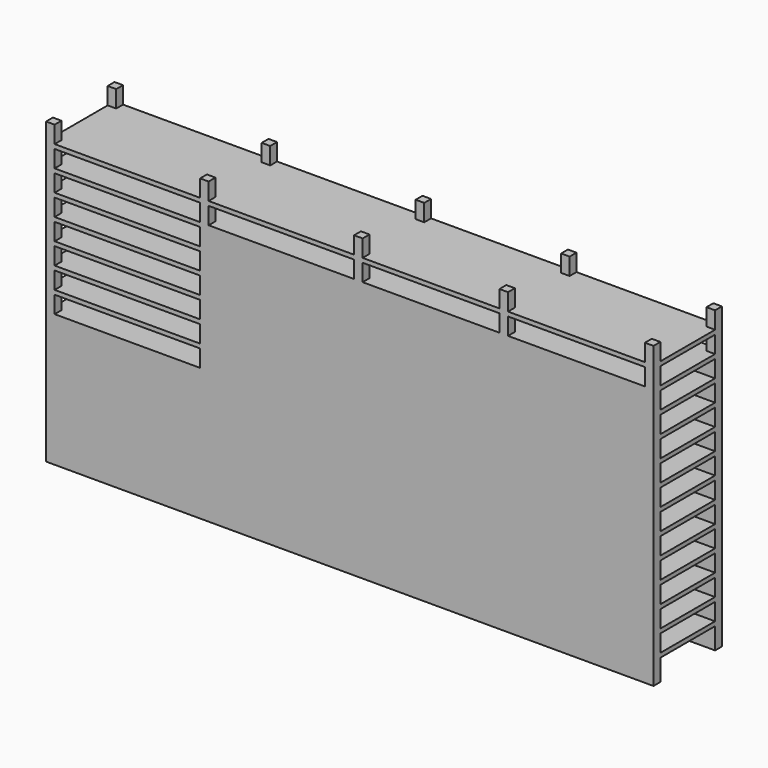
from build123d import *

# Parameters (mm, degrees)
F0_W     = 360.68
F0_H     = 50.8
F1_DEPTH = 177.8
F2_W     = 40.64
F2_H     = 10.16
F2_H_2   = 7.62
F2_H_3   = 2.54
F3_DEPTH = 360.681
F4_W     = 86.36
F4_H     = 10.16
F4_W_2   = 81.28
F5_DEPTH = 50.801
F7_DEPTH = 360.681


with BuildPart() as f1:
    # F0 (on Top) → F1 (new body)
    with BuildSketch(Plane.XY):
        with Locations((-123.650887, 16.643145)):
            Rectangle(F0_W, F0_H)
    extrude(amount=F1_DEPTH)

    # F2 (on face) → F3 (cut, through all)
    with BuildSketch(Plane(origin=(-303.990887, 0, 0), x_dir=(0, -1, 0), z_dir=(-1, 0, 0))):
        with Locations((-16.643145, 7.62)):
            Rectangle(F2_W, F2_H)
        with Locations((-16.643145, 20.32)):
            Rectangle(F2_W, F2_H)
        with Locations((-16.643145, 33.02)):
            Rectangle(F2_W, F2_H)
        with Locations((-16.643145, 45.72)):
            Rectangle(F2_W, F2_H)
        with Locations((-16.643145, 57.15)):
            Rectangle(F2_W, F2_H_2)
        with Locations((-16.643145, 62.23)):
            Rectangle(F2_W, F2_H_3)
        with Locations((-16.643145, 71.12)):
            Rectangle(F2_W, F2_H)
        with Locations((-16.643145, 83.82)):
            Rectangle(F2_W, F2_H)
        with Locations((-16.643145, 96.52)):
            Rectangle(F2_W, F2_H)
        with Locations((-16.643145, 109.22)):
            Rectangle(F2_W, F2_H)
        with Locations((-16.643145, 121.92)):
            Rectangle(F2_W, F2_H)
        with Locations((-16.643145, 134.62)):
            Rectangle(F2_W, F2_H)
        with Locations((-16.643145, 147.32)):
            Rectangle(F2_W, F2_H)
        with Locations((-16.643145, 160.02)):
            Rectangle(F2_W, F2_H)
        with Locations((-16.643145, 172.72)):
            Rectangle(F2_W, F2_H)
    extrude(amount=-F3_DEPTH, mode=Mode.SUBTRACT)

    # F4 (on face) → F5 (cut, through all)
    with BuildSketch(Plane.XZ.offset(8.756855)):
        with Locations((-255.730887, 172.72)):
            Rectangle(F4_W, F4_H)
        with Locations((-164.290887, 172.72)):
            Rectangle(F4_W, F4_H)
        with Locations((-164.290887, 160.02)):
            Rectangle(F4_W, F4_H)
        with Locations((-75.390887, 172.72)):
            Rectangle(F4_W_2, F4_H)
        with Locations((-75.390887, 160.02)):
            Rectangle(F4_W_2, F4_H)
        with Locations((10.969113, 172.72)):
            Rectangle(F4_W_2, F4_H)
        with Locations((10.969113, 160.02)):
            Rectangle(F4_W_2, F4_H)
        with Locations((-255.730887, 160.02)):
            Rectangle(F4_W, F4_H)
        with Locations((-255.730887, 147.32)):
            Rectangle(F4_W, F4_H)
        with Locations((-255.730887, 134.62)):
            Rectangle(F4_W, F4_H)
        with Locations((-255.730887, 121.92)):
            Rectangle(F4_W, F4_H)
        with Locations((-255.730887, 109.22)):
            Rectangle(F4_W, F4_H)
        with Locations((-255.730887, 96.52)):
            Rectangle(F4_W, F4_H)
        with Locations((-255.730887, 83.82)):
            Rectangle(F4_W, F4_H)
    extrude(amount=-F5_DEPTH, mode=Mode.SUBTRACT)

    # F6 (on face) → F7 (cut, through all)
    with BuildSketch(Plane(origin=(-303.990887, 0, 0), x_dir=(0, -1, 0), z_dir=(-1, 0, 0))):
        Polygon((3.676855, 2.54), (-36.963145, 2.54), (-36.963145, 0), (3.705695, 0), (3.705695, 2.54), align=None)
    extrude(amount=-F7_DEPTH, mode=Mode.SUBTRACT)


solid = f1.part
